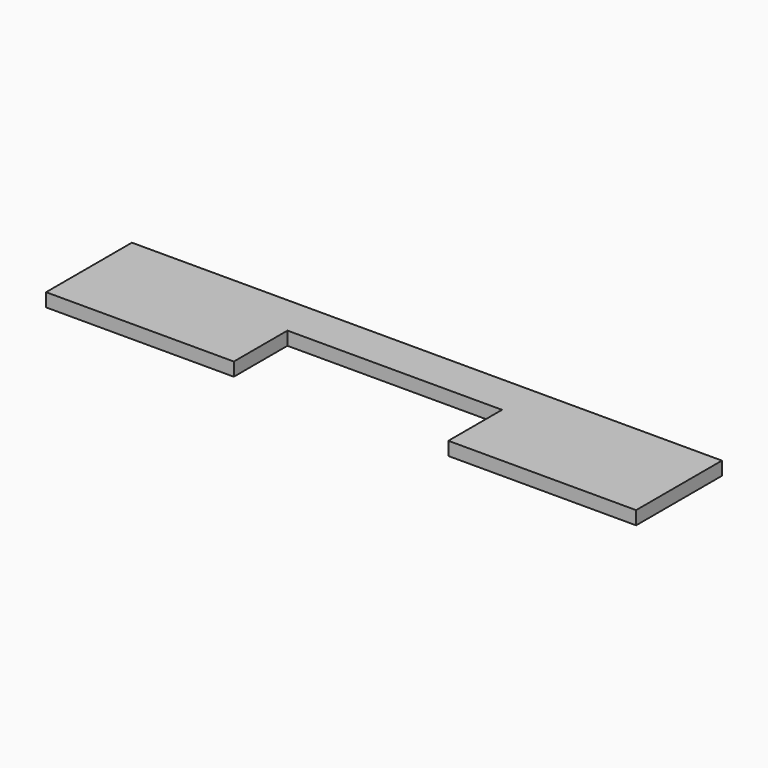
from build123d import *

# Parameters (mm, degrees)
BOX001_W                    = 279.4
BOX001_H                    = 50.8
BOX001_DEPTH                = 6.35
BOX001_PLACEMENT_ANGLE      = 30
BASEFEATURE_PLACEMENT_ANGLE = 30
SKETCH001_W                 = 101.6
SKETCH001_H                 = 31.75
POCKET_DEPTH                = 6.351


with BuildPart() as part:
    # Box001 → Box001 (new body)
    with BuildSketch(Plane.XY):
        with Locations((139.7, 25.4)):
            Rectangle(BOX001_W, BOX001_H)
    extrude(amount=BOX001_DEPTH)


with BuildPart() as part_1:
    # Box001 placement: moved
    add(part.part.moved(Location((0, 0, -417.576))).rotate(Axis((0, 0, -417.576), (-1, 0, 0)), BOX001_PLACEMENT_ANGLE))


with BuildPart() as part_2:
    # BaseFeature placement: moved
    add(part_1.part.moved(Location((0, -208.788, 361.631424))).rotate(Axis((0, -208.788, 361.631424), (1, 0, 0)), BASEFEATURE_PLACEMENT_ANGLE))

    # Sketch001 (on DatumPlane) → Pocket (cut, through all)
    with BuildSketch(Plane.XY.offset(6.35)):
        with Locations((139.7, 15.875)):
            Rectangle(SKETCH001_W, SKETCH001_H)
    extrude(amount=-POCKET_DEPTH, mode=Mode.SUBTRACT)


solid = part_2.part
